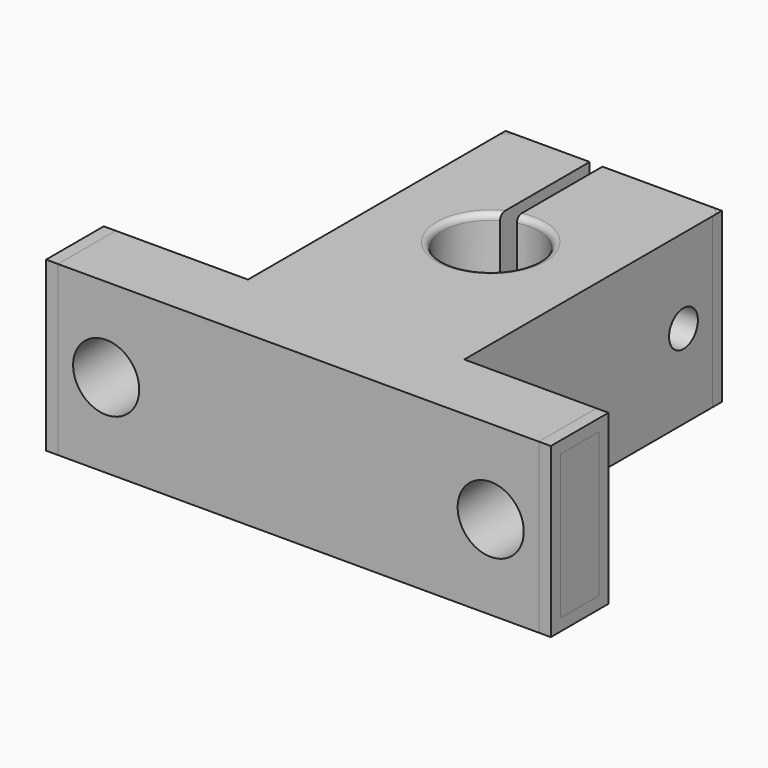
from build123d import *

# Parameters (mm, degrees)
SKETCH_R        = 4
PAD_DEPTH       = 14
SKETCH001_R     = 2.75
POCKET_DEPTH    = 32.801
SKETCH002_W     = 1.06
SKETCH002_H     = 12.094456
POCKET001_DEPTH = 14.001
SKETCH003_R     = 1.5
POCKET002_DEPTH = 30.001001
SKETCH004_R     = 3.4
POCKET003_DEPTH = 4
FILLET_R        = 0.5
FILLET001_R     = 0.5
FILLET002_R     = 0.5
FILLET003_R     = 0.5
FILLET004_R     = 1
FILLET005_R     = 1
FILLET006_R     = 1
FILLET007_R     = 1
FILLET008_R     = 0.5


with BuildPart() as fillet002:
    # Sketch → Pad (new body)
    with BuildSketch(Plane.XY):
        Polygon((0, 0), (0, 6), (12.000001, 6), (12.000001, 32.8), (30.000001, 32.8), (30.000001, 6), (42.000002, 6), (42, 0), align=None)
        with Locations((21, 20)):
            Circle(SKETCH_R, mode=Mode.SUBTRACT)
    extrude(amount=PAD_DEPTH)

    # Sketch001 → Pocket (cut, through all)
    with BuildSketch(Plane.XZ):
        with Locations((5, 7)):
            Circle(SKETCH001_R)
        with Locations((37, 7)):
            Circle(SKETCH001_R)
    extrude(amount=-POCKET_DEPTH, mode=Mode.SUBTRACT)

    # Sketch002 → Pocket001 (cut, through all)
    with BuildSketch(Plane.XY.offset(14)):
        with Locations((19.530001, 28.42605)):
            Rectangle(SKETCH002_W, SKETCH002_H)
    extrude(amount=-POCKET001_DEPTH, mode=Mode.SUBTRACT)

    # Sketch003 → Pocket002 (cut, through all)
    with BuildSketch(Plane(origin=(12.000001, 0, 0), x_dir=(0, -1, 0), z_dir=(-1, 0, 0))):
        with Locations((-28.8, 7)):
            Circle(SKETCH003_R)
    extrude(amount=-POCKET002_DEPTH, mode=Mode.SUBTRACT)

    # Sketch004 → Pocket003 (cut)
    with BuildSketch(Plane(origin=(12.000001, 0, 0), x_dir=(0, -1, 0), z_dir=(-1, 0, 0))):
        with Locations((-28.8, 7)):
            Circle(SKETCH004_R)
    extrude(amount=-POCKET003_DEPTH, mode=Mode.SUBTRACT)

    # Fillet
    fillet_edges = [fillet002.edges().sort_by_distance(p)[0] for p in [
        (19, 16.535899, 14),
        (23.473864, 23.143246, 14),
    ]]
    fillet(fillet_edges, radius=FILLET_R)

    # Fillet001
    fillet001_edges = [fillet002.edges().sort_by_distance(p)[0] for p in [
        (23.473864, 23.143246, 0),
    ]]
    fillet(fillet001_edges, radius=FILLET001_R)

    # Fillet002
    fillet002_edges = [fillet002.edges().sort_by_distance(p)[0] for p in [
        (35.055456, 6, 8.944544),
        (38.944544, 6, 5.055456),
    ]]
    fillet(fillet002_edges, radius=FILLET002_R)


with BuildPart() as fillet003:
    # Fillet003 base: copy of Fillet002
    add(fillet002.part)

    # Fillet003
    fillet003_edges = [fillet003.edges().sort_by_distance(p)[0] for p in [
        (3.055456, 6, 8.944544),
        (6.944544, 6, 5.055456),
    ]]
    fillet(fillet003_edges, radius=FILLET003_R)


with BuildPart() as fillet008:
    # Fillet004 base: copy of Fillet002
    add(fillet002.part)

    # Fillet004
    fillet004_edges = [fillet008.edges().sort_by_distance(p)[0] for p in [
        (42.000002, 6, 7),
        (42, 0, 7),
        (42.000001, 3, 0),
        (42.000001, 3, 14),
    ]]
    fillet(fillet004_edges, radius=FILLET004_R)

    # Fillet005
    fillet005_edges = [fillet008.edges().sort_by_distance(p)[0] for p in [
        (0, 0, 7),
        (0, 6, 7),
        (0, 3, 0),
        (0, 3, 14),
    ]]
    fillet(fillet005_edges, radius=FILLET005_R)

    # Fillet006
    fillet006_edges = [fillet008.edges().sort_by_distance(p)[0] for p in [
        (30.000001, 32.8, 7),
    ]]
    fillet(fillet006_edges, radius=FILLET006_R)

    # Fillet007
    fillet007_edges = [fillet008.edges().sort_by_distance(p)[0] for p in [
        (12.000001, 32.8, 7),
    ]]
    fillet(fillet007_edges, radius=FILLET007_R)

    # Fillet008
    fillet008_edges = [fillet008.edges().sort_by_distance(p)[0] for p in [
        (3.055456, 6, 8.944544),
        (6.944544, 6, 5.055456),
    ]]
    fillet(fillet008_edges, radius=FILLET008_R)


solid = Compound([fillet003.part, fillet008.part])
